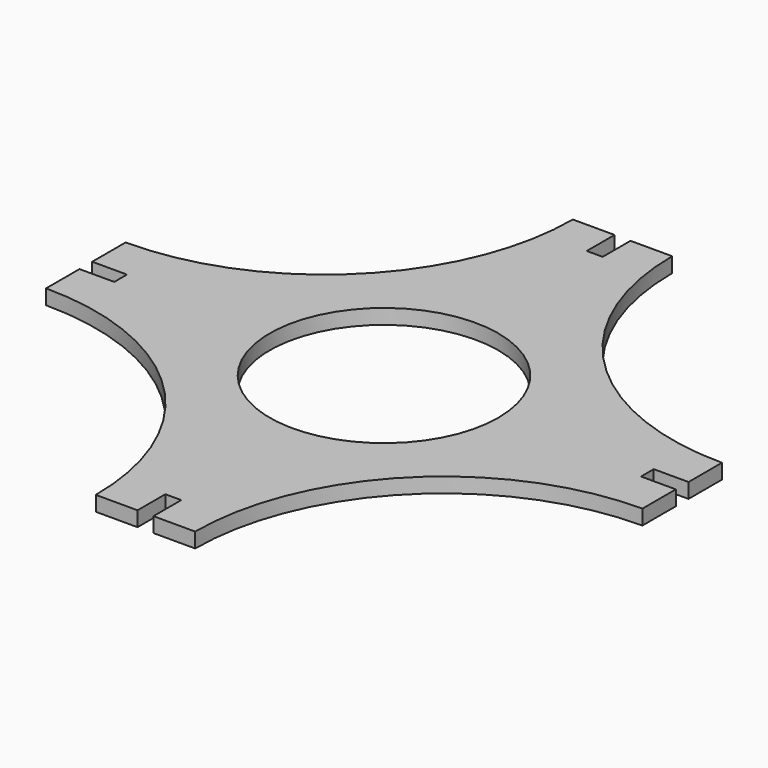
from build123d import *

# Parameters (mm, degrees)
BOX001_W          = 3.2
BOX001_H          = 8
BOX001_DEPTH      = 10
ARRAY001_COUNT    = 4
CYLINDER001_R     = 50
CYLINDER001_DEPTH = 10
ARRAY_COUNT       = 4
CYLINDER_R        = 23
CYLINDER_DEPTH    = 10
BOX_W             = 120
BOX_H             = 120
BOX_DEPTH         = 3


with BuildPart() as array001:
    # Box001 → Box001 (new body)
    with BuildSketch(Plane(origin=(-1.6, 53, 0), x_dir=(1, 0, 0), z_dir=(0, 0, 1))):
        with Locations((1.6, 4)):
            Rectangle(BOX001_W, BOX001_H)
    extrude(amount=BOX001_DEPTH)

    # Array001: Array001 ×4 about axis
    array001_axis = Axis((0, 0, 0), (0, 0, 1))


with BuildPart() as array001_1:
    add(array001.part)
    for i in range(1, ARRAY001_COUNT):
        add(array001.part.rotate(array001_axis, i * 360 / ARRAY001_COUNT))


with BuildPart() as array:
    # Cylinder001 → Cylinder001 (new body)
    with BuildSketch(Plane(origin=(60, 60, 0), x_dir=(1, 0, 0), z_dir=(0, 0, 1))):
        Circle(CYLINDER001_R)
    extrude(amount=CYLINDER001_DEPTH)

    # Array: Array ×4 about axis
    array_axis = Axis((0, 0, 0), (0, 0, 1))


with BuildPart() as array_1:
    add(array.part)
    for i in range(1, ARRAY_COUNT):
        add(array.part.rotate(array_axis, i * 360 / ARRAY_COUNT))


with BuildPart() as cilindro:
    # Cylinder → Cylinder (new body)
    with BuildSketch(Plane(origin=(60, 60, 0), x_dir=(1, 0, 0), z_dir=(0, 0, 1))):
        Circle(CYLINDER_R)
    extrude(amount=CYLINDER_DEPTH)


with BuildPart() as cut002:
    # Box → Box (new body)
    with BuildSketch(Plane.XY):
        with Locations((60, 60)):
            Rectangle(BOX_W, BOX_H)
    extrude(amount=BOX_DEPTH)

    # Cut: cut Cilindro
    add(cilindro.part, mode=Mode.SUBTRACT)


with BuildPart() as cut002_1:
    # Cut placement: moved
    add(cut002.part.moved(Location((-60, -60, 0))))

    # Cut001: cut Array
    add(array_1.part, mode=Mode.SUBTRACT)

    # Cut002: cut Array001
    add(array001_1.part, mode=Mode.SUBTRACT)


solid = cut002_1.part
